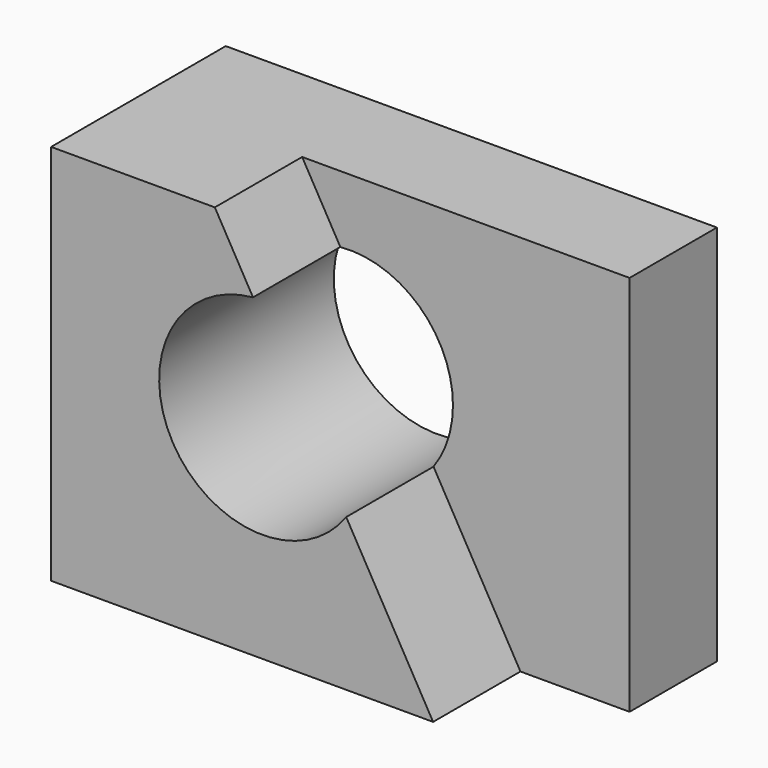
from build123d import *

# Parameters (mm, degrees)
F0_W     = 57.15
F0_H     = 44.45
F1_DEPTH = 25.4
F2_W     = 12.7
F2_H     = 44.45
F3_DEPTH = 12.7
F5_DEPTH = 12.7
F6_R     = 12.012115
F7_DEPTH = 25.4


with BuildPart() as f1:
    # F0 (on Front) → F1 (new body)
    with BuildSketch(Plane.XZ):
        with Locations((28.575, 22.225)):
            Rectangle(F0_W, F0_H)
    extrude(amount=-F1_DEPTH)

    # F2 (on Front) → F3 (cut)
    with BuildSketch(Plane.XZ):
        with Locations((50.8, 22.225)):
            Rectangle(F2_W, F2_H)
    extrude(amount=-F3_DEPTH, mode=Mode.SUBTRACT)

    # F4 (on Front) → F5 (cut)
    with BuildSketch(Plane.XZ):
        Polygon((19.05, 44.45), (44.45, 0), (44.45, 44.45), align=None)
    extrude(amount=-F5_DEPTH, mode=Mode.SUBTRACT)

    # F6 (on Front) → F7 (cut)
    with BuildSketch(Plane.XZ):
        with Locations((24.58664, 24.712115)):
            Circle(F6_R)
    extrude(amount=-F7_DEPTH, mode=Mode.SUBTRACT)


solid = f1.part
